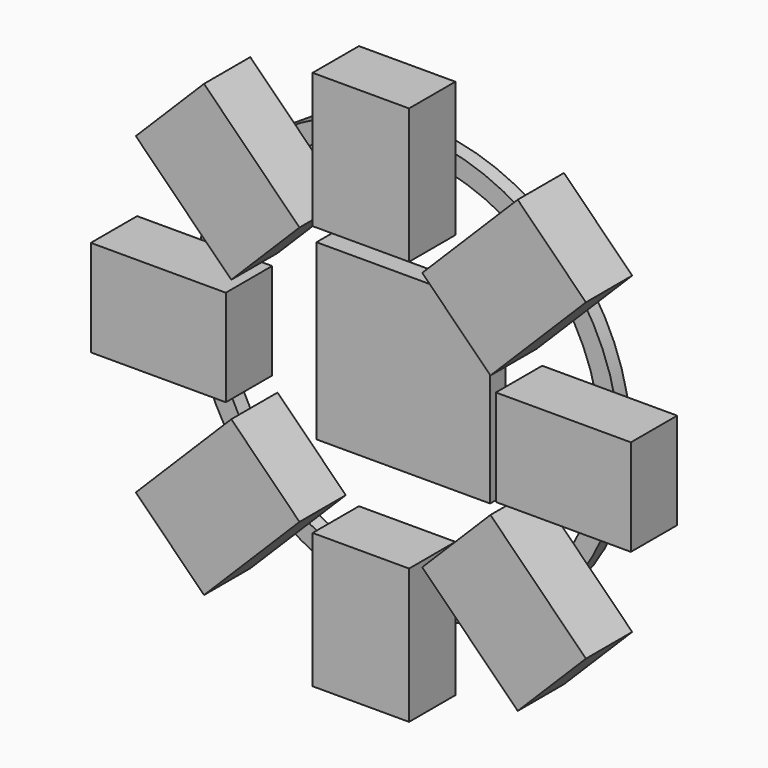
from build123d import *

# Parameters (mm, degrees)
F0_R     = 279.4
F0_R_2   = 254
F1_DEPTH = 19.05
F3_DEPTH = 76.2
F2_W     = 127
F2_H     = 177.8
F4_DEPTH = 76.2
F2_W_2   = 177.8
F2_H_2   = 127
F5_W     = 228.6
F5_H     = 228.6
F6_DEPTH = 25.4


with BuildPart() as f1:
    # F0 (on Front) → F1 (new body)
    with BuildSketch(Plane.XZ):
        Circle(F0_R)
        Circle(F0_R_2, mode=Mode.SUBTRACT)
    extrude(amount=F1_DEPTH)


with BuildPart() as f3:
    # F2 (on face) → F3 (new body)
    with BuildSketch(Plane.XZ.offset(19.05)):
        with BuildLine():
            ThreePointArc((63.5, 272.0884231275), (0, 279.4), (-63.5, 272.0884231275))
            Line((-63.5, 272.0884231275), (-63.5, 245.9344424842))
            ThreePointArc((-63.5, 245.9344424842), (0, 254), (63.5, 245.9344424842))
            Line((63.5, 245.9344424842), (63.5, 272.0884231275))
        make_face()
        with BuildLine():
            ThreePointArc((63.5, 245.9344424842), (0, 254), (-63.5, 245.9344424842))
            Line((-63.5, 245.9344424842), (-63.5, 177.8))
            Line((-63.5, 177.8), (63.5, 177.8))
            Line((63.5, 177.8), (63.5, 245.9344424842))
        make_face()
        with BuildLine():
            Line((63.5, 355.6), (-63.5, 355.6))
            Line((-63.5, 355.6), (-63.5, 272.0884231275))
            ThreePointArc((-63.5, 272.0884231275), (0, 279.4), (63.5, 272.0884231275))
            Line((63.5, 272.0884231275), (63.5, 355.6))
        make_face()
    extrude(amount=F3_DEPTH)


with BuildPart() as f4:
    # F2 (on face) → F4 (new body)
    with BuildSketch(Plane.XZ.offset(19.05)):
        with Locations((0, 266.7)):
            Rectangle(F2_W, F2_H)
    extrude(amount=F4_DEPTH)


with BuildPart() as f4b:
    # F2 (on face) → F4, piece 2 (new body)
    with BuildSketch(Plane.XZ.offset(19.05)):
        Polygon((-80.8223050896, 170.6248663003), (-206.5458907846, 296.3484519953), (-296.3484519953, 206.5458907846), (-170.6248663003, 80.8223050896), align=None)
    extrude(amount=F4_DEPTH)


with BuildPart() as f4c:
    # F2 (on face) → F4, piece 3 (new body)
    with BuildSketch(Plane.XZ.offset(19.05)):
        with Locations((-266.7, 0)):
            Rectangle(F2_W_2, F2_H_2)
    extrude(amount=F4_DEPTH)


with BuildPart() as f4d:
    # F2 (on face) → F4, piece 4 (new body)
    with BuildSketch(Plane.XZ.offset(19.05)):
        Polygon((-170.6248663003, -80.8223050896), (-296.3484519953, -206.5458907846), (-206.5458907846, -296.3484519953), (-80.8223050896, -170.6248663003), align=None)
    extrude(amount=F4_DEPTH)


with BuildPart() as f4e:
    # F2 (on face) → F4, piece 5 (new body)
    with BuildSketch(Plane.XZ.offset(19.05)):
        with Locations((0, -266.7)):
            Rectangle(F2_W, F2_H)
    extrude(amount=F4_DEPTH)


with BuildPart() as f4f:
    # F2 (on face) → F4, piece 6 (new body)
    with BuildSketch(Plane.XZ.offset(19.05)):
        Polygon((80.8223050896, -170.6248663003), (206.5458907846, -296.3484519953), (296.3484519953, -206.5458907846), (170.6248663003, -80.8223050896), align=None)
    extrude(amount=F4_DEPTH)


with BuildPart() as f4g:
    # F2 (on face) → F4, piece 7 (new body)
    with BuildSketch(Plane.XZ.offset(19.05)):
        with Locations((266.7, 0)):
            Rectangle(F2_W_2, F2_H_2)
    extrude(amount=F4_DEPTH)


with BuildPart() as f4h:
    # F2 (on face) → F4, piece 8 (new body)
    with BuildSketch(Plane.XZ.offset(19.05)):
        Polygon((170.6248663003, 80.8223050896), (296.3484519953, 206.5458907846), (206.5458907846, 296.3484519953), (80.8223050896, 170.6248663003), align=None)
    extrude(amount=F4_DEPTH)


with BuildPart() as f6:
    # F5 (on Front) → F6 (new body)
    with BuildSketch(Plane.XZ):
        Rectangle(F5_W, F5_H)
    extrude(amount=F6_DEPTH)


solid = Compound([f1.part, f3.part, f4.part, f4b.part, f4c.part, f4d.part, f4e.part, f4f.part, f4g.part, f4h.part, f6.part])
